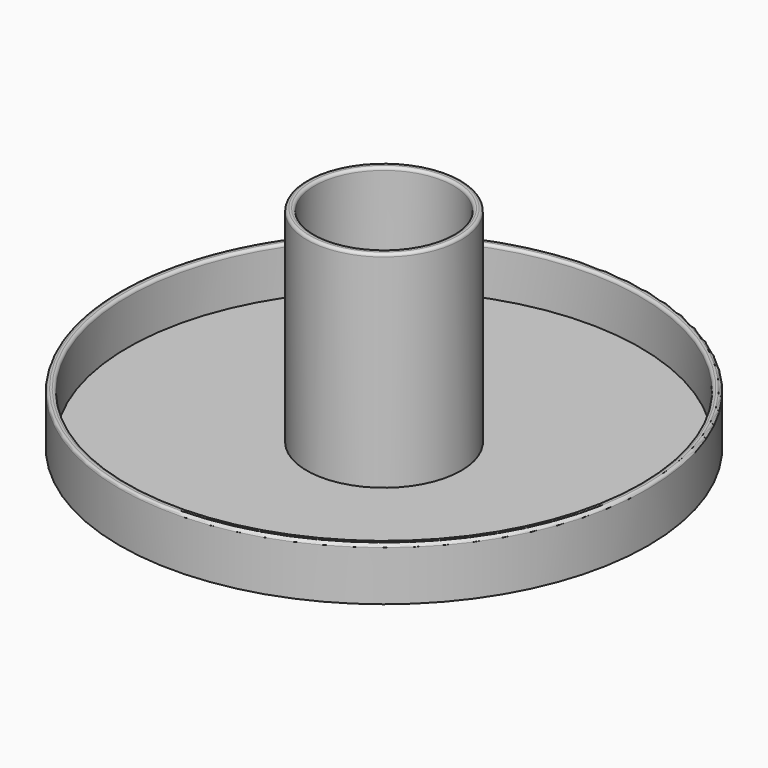
from build123d import *

# Parameters (mm, degrees)
F0_R     = 97
F0_R_2   = 29.25
F1_DEPTH = 2
F0_R_3   = 100
F2_DEPTH = 20
F0_R_4   = 26.25
F3_DEPTH = 80
F5_R     = 27.25
F6_DEPTH = 3
F7_R     = 1.1
F8_SIZE  = 1


with BuildPart() as f1:
    # F0 (on Top) → F1 (new body)
    with BuildSketch(Plane.XY):
        Circle(F0_R)
        Circle(F0_R_2, mode=Mode.SUBTRACT)
    extrude(amount=F1_DEPTH)

    # F0 (on Top) → F2 (join)
    with BuildSketch(Plane.XY):
        Circle(F0_R_3)
        Circle(F0_R, mode=Mode.SUBTRACT)
    extrude(amount=F2_DEPTH)

    # F0 (on Top) → F3 (join)
    with BuildSketch(Plane.XY):
        Circle(F0_R_2)
        Circle(F0_R_4, mode=Mode.SUBTRACT)
    extrude(amount=F3_DEPTH)

    # F5 (on offset) → F6 (join)
    with BuildSketch(Plane.XY.offset(20)):
        Circle(F5_R)
    extrude(amount=F6_DEPTH)

    # F7
    f7_edges = [f1.edges().sort_by_distance(p)[0] for p in [
        (-100, 0, 20),
        (-97, 0, 20),
        (-29.25, 0, 80),
        (-26.25, 0, 80),
    ]]
    fillet(f7_edges, radius=F7_R)

    # F8
    f8_edges = [f1.edges().sort_by_distance(p)[0] for p in [
        (-26.25, 0, 0),
    ]]
    chamfer(f8_edges, length=F8_SIZE)


solid = f1.part
